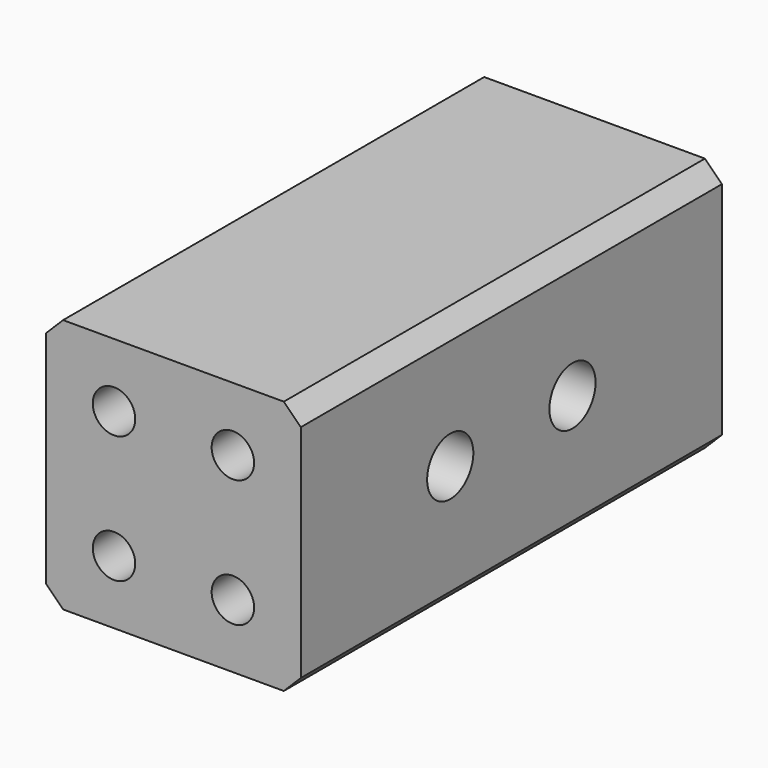
from build123d import *

# Parameters (mm, degrees)
F0_W     = 30
F0_H     = 30
F1_DEPTH = 62
F3_D     = 5
F3_DEPTH = 20
F3_TIP   = 1.5021515476
F5_D     = 6.8
F5_DEPTH = 20
F5_TIP   = 2.0429261047
F7_D     = 5
F7_DEPTH = 20
F7_TIP   = 1.5021515476
F8_SIZE  = 2


with BuildPart() as f1:
    # F0 (on Front) → F1 (new body)
    with BuildSketch(Plane.XZ):
        with Locations((2.5945728272, 3.4459190071)):
            Rectangle(F0_W, F0_H)
    extrude(amount=F1_DEPTH)

    # F3
    with Locations(Plane.XZ.offset(62)):
        with Locations((-4.4054271728, 10.9459190071), (9.5945728272, 10.9459190071), (9.5945728272, -4.0540809929), (-4.4054271728, -4.0540809929)):
            Hole(F3_D / 2, depth=F3_DEPTH)
            with Locations((0, 0, -(F3_DEPTH + F3_TIP / 2))):  # 118° drill point
                Cone(0, F3_D / 2, F3_TIP, mode=Mode.SUBTRACT)

    # F5
    with Locations(Plane.YZ.offset(17.5945728272)):
        with Locations((-40, 3.4459190071), (-22, 3.4459190071)):
            Hole(F5_D / 2, depth=F5_DEPTH)
            with Locations((0, 0, -(F5_DEPTH + F5_TIP / 2))):  # 118° drill point
                Cone(0, F5_D / 2, F5_TIP, mode=Mode.SUBTRACT)

    # F7
    with Locations(Plane(origin=(0, 0, 0), x_dir=(-1, 0, 0), z_dir=(0, 1, 0))):
        with Locations((-9.5945728272, 10.9459190071), (4.4054271728, 10.9459190071), (4.4054271728, -4.0540809929), (-9.5945728272, -4.0540809929)):
            Hole(F7_D / 2, depth=F7_DEPTH)
            with Locations((0, 0, -(F7_DEPTH + F7_TIP / 2))):  # 118° drill point
                Cone(0, F7_D / 2, F7_TIP, mode=Mode.SUBTRACT)

    # F8
    f8_edges = [f1.edges().sort_by_distance(p)[0] for p in [
        (-12.405427, -31, 18.445919),
        (17.594573, -31, 18.445919),
        (17.594573, -31, -11.554081),
        (-12.405427, -31, -11.554081),
    ]]
    chamfer(f8_edges, length=F8_SIZE)


solid = f1.part
